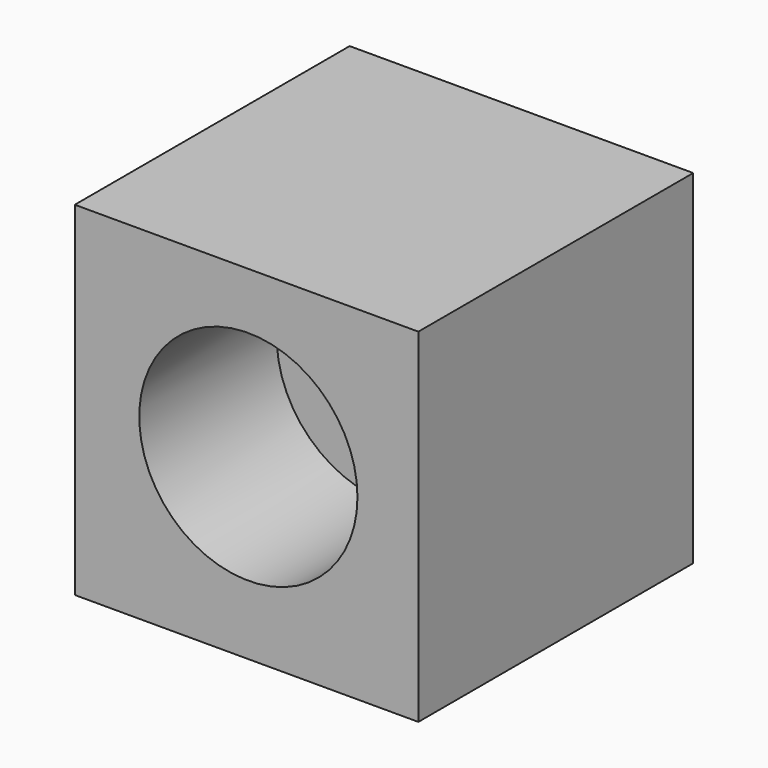
from build123d import *

# Parameters (mm, degrees)
F0_W     = 76.2
F0_H     = 76.2
F1_DEPTH = 76.2
F2_R     = 24.198558
F3_DEPTH = 38.1


with BuildPart() as f1:
    # F0 (on Front) → F1 (new body)
    with BuildSketch(Plane.XZ):
        with Locations((-5.188912, 4.258561)):
            Rectangle(F0_W, F0_H)
    extrude(amount=F1_DEPTH)

    # F2 (on face) → F3 (cut, symmetric)
    with BuildSketch(Plane.XZ.offset(76.2)):
        with Locations((-4.792011, 5.650742)):
            Circle(F2_R)
    extrude(amount=F3_DEPTH, both=True, mode=Mode.SUBTRACT)


solid = f1.part
